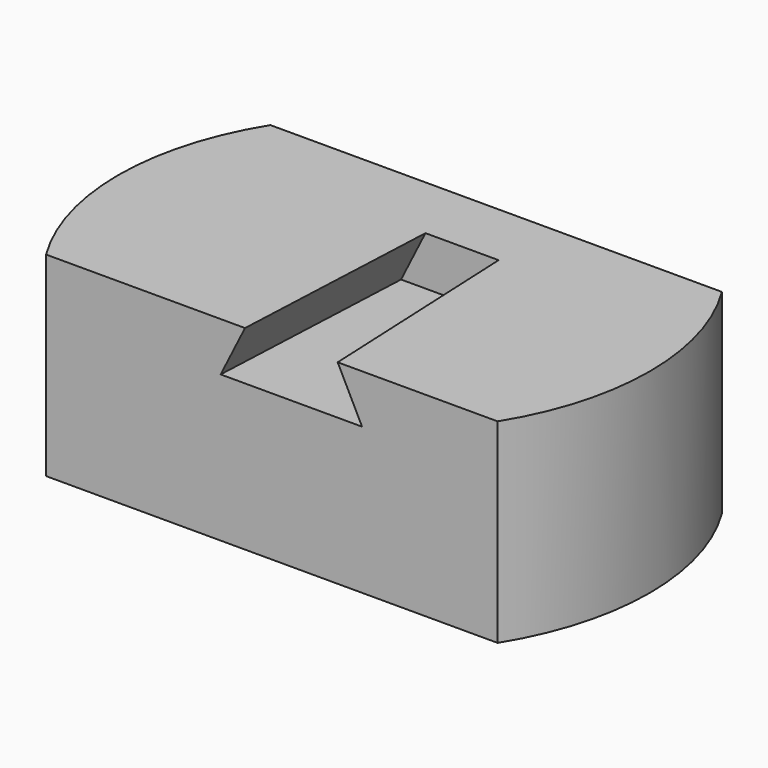
from build123d import *

# Parameters (mm, degrees)
F1_DEPTH = 8
F6_W     = 6.3
F6_H     = 3.3
F7_DEPTH = 11.9
F8_DEPTH = 7


with BuildPart() as f1:
    # F0 (on Top) → F1 (new body)
    with BuildSketch(Plane.XY):
        with BuildLine():
            Line((9.259995, 5.75), (8.785642, 5.75))
            Line((8.785642, 5.75), (-8.785642, 5.75))
            Line((-8.785642, 5.75), (-9.259995, 5.75))
            ThreePointArc((-9.259995, 5.75), (-10.9, 0), (-9.259995, -5.75))
            Line((-9.259995, -5.75), (-8.785642, -5.75))
            Line((-8.785642, -5.75), (8.785642, -5.75))
            Line((8.785642, -5.75), (9.259995, -5.75))
            ThreePointArc((9.259995, -5.75), (10.9, 0), (9.259995, 5.75))
        make_face()
    extrude(amount=-F1_DEPTH)

    # F2 (on face) → F5 section 0
    with BuildSketch(Plane.XZ.offset(5.75)):
        Polygon((2.7, 0), (-1.1, 0), (-2.1, -2), (3.7, -2), align=None)
    # F4 (on offset) → F5 section 1
    with BuildSketch(Plane.XZ.offset(-3)):
        Polygon((3.3, -2), (2.3, 0), (-0.7, 0), (-1.7, -2), align=None)
    loft(mode=Mode.SUBTRACT)

    # F6 (on Right) → F7 (cut)
    with BuildSketch(Plane.YZ):
        with Locations((0, -5.15)):
            Rectangle(F6_W, F6_H)
    extrude(amount=-F7_DEPTH, mode=Mode.SUBTRACT)

    # F6 (on Right) → F8 (cut)
    with BuildSketch(Plane.YZ):
        with Locations((0, -5.15)):
            Rectangle(F6_W, F6_H)
    extrude(amount=F8_DEPTH, mode=Mode.SUBTRACT)


solid = f1.part
